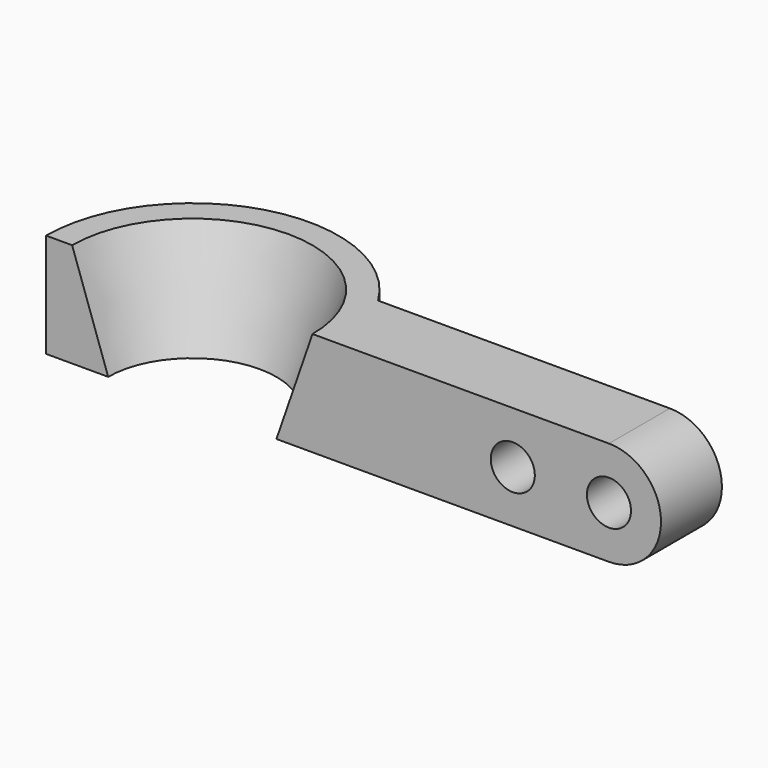
from build123d import *

# Parameters (mm, degrees)
F2_ANGLE = -180
F3_R     = 11
F4_DEPTH = 38


with BuildPart() as f2:
    # F0 (on Front) → F2 (revolve)
    with BuildSketch(Plane.XZ):
        Polygon((-73, 52), (-73, 0), (-42, 0), (-60, 52), align=None)
    revolve(axis=Axis((0, 0, 36.428589), (0, 0, 1)), revolution_arc=F2_ANGLE)

    # F3 (on face) → F4 (join)
    with BuildSketch(Plane.XZ):
        with BuildLine():
            Line((73, 52), (73, 0))
            Line((73, 0), (208, 0))
            ThreePointArc((208, 0), (234, 26), (208, 52))
            Line((208, 52), (73, 52))
        make_face()
        with Locations((160, 26)):
            Circle(F3_R, mode=Mode.SUBTRACT)
        with Locations((208, 26)):
            Circle(F3_R, mode=Mode.SUBTRACT)
        Polygon((60, 52), (42, 0), (73, 0), (73, 52), align=None)
    extrude(amount=-F4_DEPTH)


solid = f2.part
